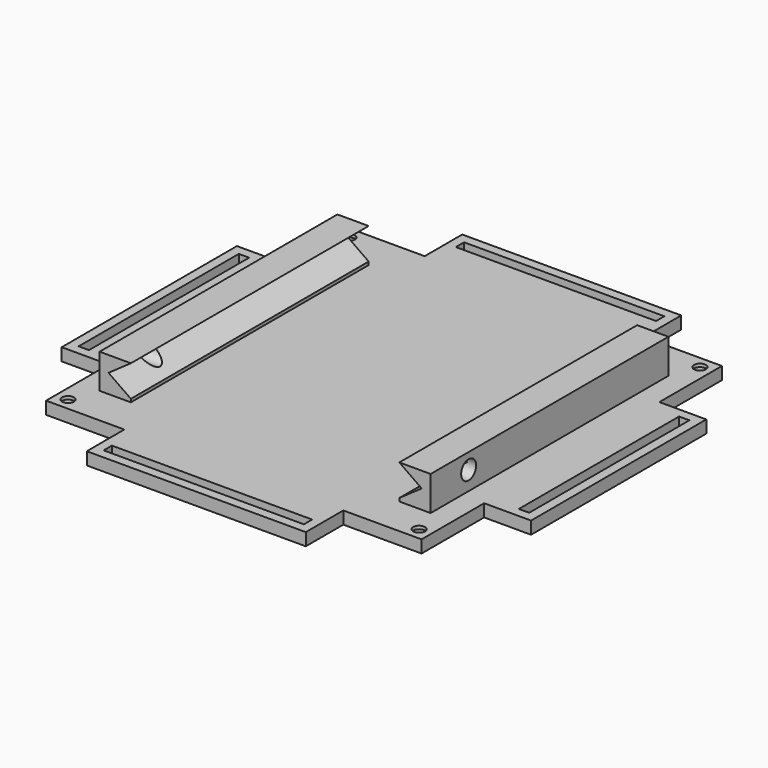
from build123d import *

# Parameters (mm, degrees)
SKETCH_W        = 150
SKETCH_H        = 150
PAD_DEPTH       = 4
POCKET_DEPTH    = 4.001
SKETCH002_R     = 1.9
SKETCH002_W     = 3.3
SKETCH002_H     = 64
SKETCH002_W_2   = 64
SKETCH002_H_2   = 3.3
POCKET001_DEPTH = 5
SKETCH003_R     = 2.95
POCKET002_DEPTH = 3
SKETCH004_W     = 10
SKETCH004_H     = 95
PAD001_DEPTH    = 11
POCKET003_DEPTH = 122.501
SKETCH006_R     = 3
POCKET004_DEPTH = 127.901


with BuildPart() as part:
    # Sketch → Pad (new body)
    with BuildSketch(Plane.XY):
        with Locations((75, 75)):
            Rectangle(SKETCH_W, SKETCH_H)
    extrude(amount=PAD_DEPTH)

    # Sketch001 (on Face6 of Pad) → Pocket (cut, through all)
    with BuildSketch(Plane.XY.offset(4)):
        Polygon((0, 110), (15, 110), (15, 135), (40, 135), (40, 150), (0, 150), align=None)
        Polygon((0, 40), (15, 40), (15, 15), (40, 15), (40, 0), (0, 0), align=None)
        Polygon((110, 150), (110, 135), (135, 135), (135, 110), (150, 110), (150, 150), align=None)
        Polygon((150, 40), (135, 40), (135, 15), (110, 15), (110, 0), (150, 0), align=None)
    extrude(amount=-POCKET_DEPTH, mode=Mode.SUBTRACT)

    # Sketch002 (on Face4 of Pocket) → Pocket001 (cut)
    with BuildSketch(Plane.XY.offset(4)):
        with Locations((18.9, 131.1)):
            Circle(SKETCH002_R)
        with Locations((131.1, 131.1)):
            Circle(SKETCH002_R)
        with Locations((131.1, 18.9)):
            Circle(SKETCH002_R)
        with Locations((18.9, 18.9)):
            Circle(SKETCH002_R)
        with Locations((4.65, 75)):
            Rectangle(SKETCH002_W, SKETCH002_H)
        with Locations((75, 145.35)):
            Rectangle(SKETCH002_W_2, SKETCH002_H_2)
        with Locations((145.35, 75)):
            Rectangle(SKETCH002_W, SKETCH002_H)
        with Locations((75, 4.65)):
            Rectangle(SKETCH002_W_2, SKETCH002_H_2)
    extrude(amount=-POCKET001_DEPTH, mode=Mode.SUBTRACT)

    # Sketch003 (on Face2 of Pocket001) → Pocket002 (cut)
    with BuildSketch(Plane(origin=(0, 0, 0), x_dir=(1, 0, 0), z_dir=(0, 0, -1))):
        with Locations((18.9, -131.1)):
            Circle(SKETCH003_R)
        with Locations((18.9, -18.9)):
            Circle(SKETCH003_R)
        with Locations((131.1, -18.9)):
            Circle(SKETCH003_R)
        with Locations((131.1, -131.1)):
            Circle(SKETCH003_R)
    extrude(amount=-POCKET002_DEPTH, mode=Mode.SUBTRACT)

    # Sketch004 (on Face4 of Pocket002) → Pad001 (join)
    with BuildSketch(Plane.XY.offset(4)):
        with Locations((27.1, 75)):
            Rectangle(SKETCH004_W, SKETCH004_H)
        with Locations((122.9, 75)):
            Rectangle(SKETCH004_W, SKETCH004_H)
    extrude(amount=PAD001_DEPTH)

    # Sketch005 (on Face52 of Pad001) → Pocket003 (cut, through all)
    with BuildSketch(Plane.XZ.offset(-27.5)):
        Polygon((24.96, 10), (32.1, 15), (32.1, 5), align=None)
        Polygon((117.9, 5), (125.04, 10), (117.9, 15), align=None)
    extrude(amount=-POCKET003_DEPTH, mode=Mode.SUBTRACT)

    # Sketch006 (on Face53 of Pocket003) → Pocket004 (cut, through all)
    with BuildSketch(Plane(origin=(22.1, 0, 0), x_dir=(0, -1, 0), z_dir=(-1, 0, 0))):
        with Locations((-42.7, 10)):
            Circle(SKETCH006_R)
    extrude(amount=-POCKET004_DEPTH, mode=Mode.SUBTRACT)


with BuildPart() as part_1:
    # Body placement: moved
    add(part.part.moved(Location((0, 0, -48))))


solid = part_1.part
